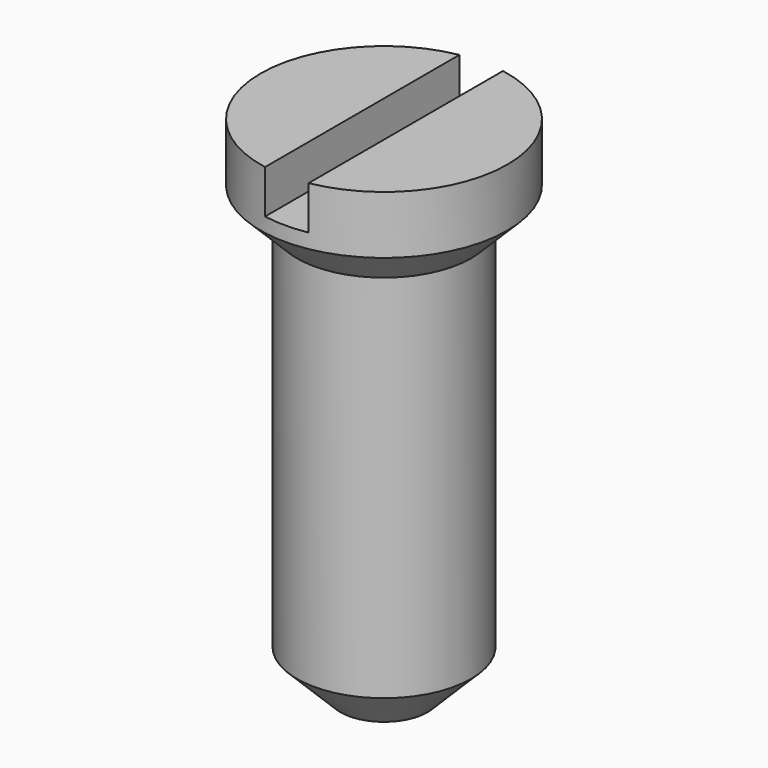
from build123d import *

# Parameters (mm, degrees)
F3_DEPTH = 0.3


with BuildPart() as f1:
    # F0 (on Front) → F1 (revolve)
    with BuildSketch(Plane.XZ):
        Polygon((0, 3.5), (0, 0), (0.3, 0), (0.6, 0.3), (0.6, 2.85), (0.85, 3.1), (0.85, 3.5), align=None)
    revolve(axis=Axis((0, 0, 1.75), (0, 0, -1)))

    # F2 (on face) → F3 (cut)
    with BuildSketch(Plane.XY.offset(3.5)):
        with BuildLine():
            ThreePointArc((0.15, 0.83666), (0, 0.85), (-0.15, 0.83666))
            Line((-0.15, 0.83666), (-0.15, -0.83666))
            ThreePointArc((-0.15, -0.83666), (0, -0.85), (0.15, -0.83666))
            Line((0.15, -0.83666), (0.15, 0.83666))
        make_face()
    extrude(amount=-F3_DEPTH, mode=Mode.SUBTRACT)


solid = f1.part
